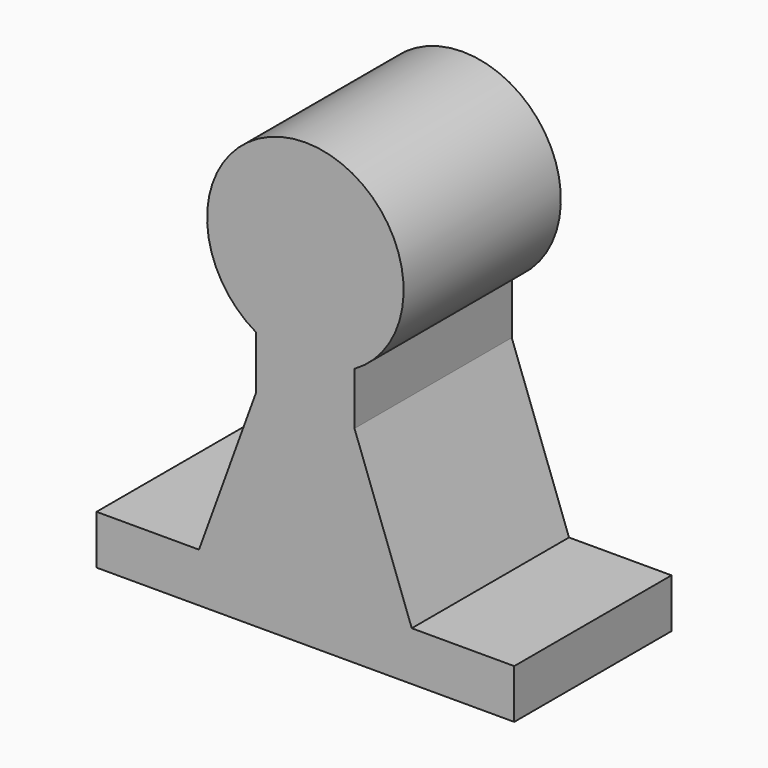
from build123d import *

# Parameters (mm, degrees)
F1_DEPTH = 25.4


with BuildPart() as f1:
    # F0 (on Front) → F1 (new body)
    with BuildSketch(Plane.XZ):
        with BuildLine():
            Line((6.35, -17.78), (6.35, -10.992656))
            ThreePointArc((6.35, -10.992656), (0, 12.69492), (-6.35, -10.992656))
            Line((-6.35, -10.992656), (-6.35, -17.78))
            Line((-6.35, -17.78), (-13.745875, -38.1))
            Line((-13.745875, -38.1), (-26.9875, -38.1))
            Line((-26.9875, -38.1), (-26.9875, -44.45))
            Line((-26.9875, -44.45), (26.9875, -44.45))
            Line((26.9875, -44.45), (26.9875, -38.1))
            Line((26.9875, -38.1), (13.745875, -38.1))
            Line((13.745875, -38.1), (6.35, -17.78))
        make_face()
    extrude(amount=F1_DEPTH)


solid = f1.part
